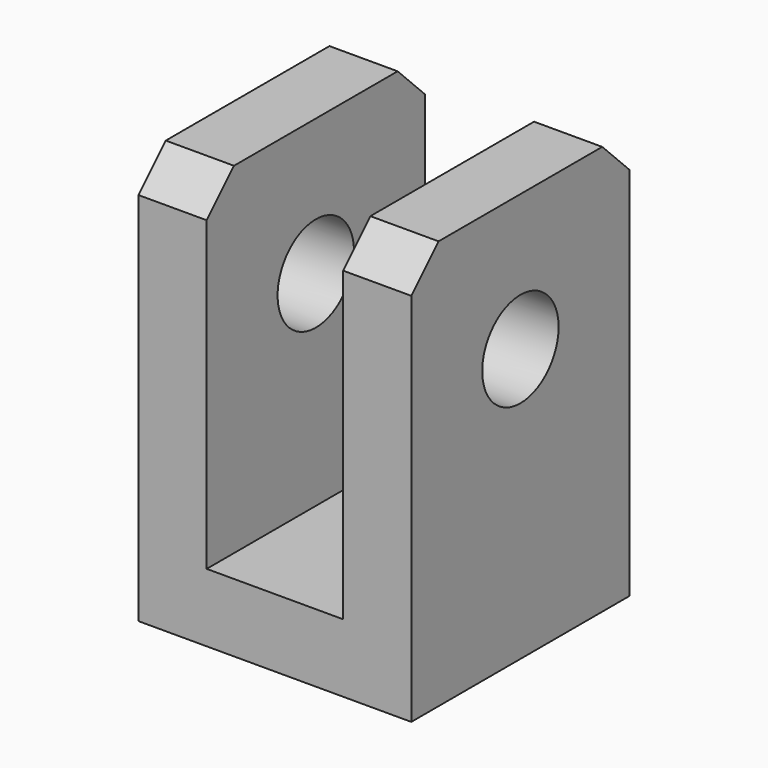
from build123d import *

# Parameters (mm, degrees)
F0_W     = 40
F0_H     = 40
F1_DEPTH = 10
F2_W     = 10
F2_H     = 40
F3_DEPTH = 50
F4_W     = 10
F4_H     = 40
F5_DEPTH = 50
F6_R     = 7
F7_DEPTH = 96.2
F8_SIZE  = 5


with BuildPart() as f1:
    # F0 (on Top) → F1 (new body)
    with BuildSketch(Plane.XY):
        Rectangle(F0_W, F0_H)
    extrude(amount=F1_DEPTH)

    # F2 (on face) → F3 (join)
    with BuildSketch(Plane.XY.offset(10)):
        with Locations((-15, 0)):
            Rectangle(F2_W, F2_H)
    extrude(amount=F3_DEPTH)

    # F4 (on face) → F5 (join)
    with BuildSketch(Plane.XY.offset(10)):
        with Locations((15, 0)):
            Rectangle(F4_W, F4_H)
    extrude(amount=F5_DEPTH)

    # F6 (on face) → F7 (cut)
    with BuildSketch(Plane.YZ.offset(20)):
        with Locations((0, 40)):
            Circle(F6_R)
    extrude(amount=-F7_DEPTH, mode=Mode.SUBTRACT)

    # F8
    f8_edges = [f1.edges().sort_by_distance(p)[0] for p in [
        (-15, -20, 60),
        (15, -20, 60),
        (15, 20, 60),
        (-15, 20, 60),
    ]]
    chamfer(f8_edges, length=F8_SIZE)


solid = f1.part
